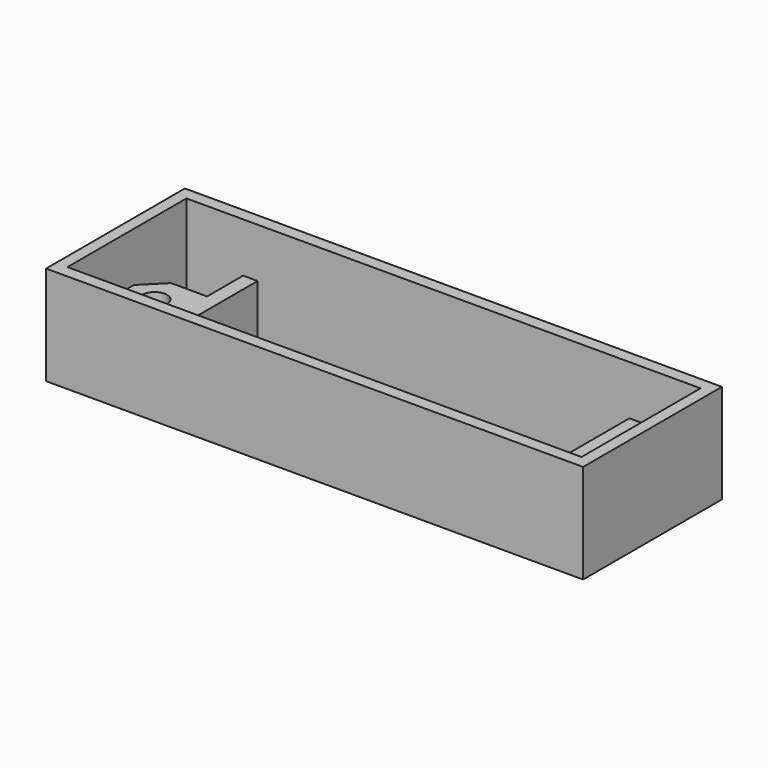
from build123d import *

# Parameters (mm, degrees)
F0_W      = 130
F0_H      = 42
F0_W_2    = 90
F0_H_2    = 36
F1_DEPTH  = 4
F3_DEPTH  = 5
F5_DEPTH  = 3
F6_SIZE   = 3
F7_R      = 3
F8_DEPTH  = 12.5
F10_R     = 3
F11_DEPTH = 37.9
F12_W     = 130
F12_H     = 42
F13_DEPTH = 20
F14_W     = 3.5
F14_H     = 10.9
F15_DEPTH = 8


with BuildPart() as f1:
    # F0 (on Top) → F1 (new body)
    with BuildSketch(Plane.XY):
        Rectangle(F0_W, F0_H)
        Rectangle(F0_W_2, F0_H_2, mode=Mode.SUBTRACT)
    extrude(amount=F1_DEPTH)

    # F2 (on face) → F3 (join)
    with BuildSketch(Plane.XY.offset(4)):
        Polygon((45, 7.1), (45, 4.1), (56, 4.1), (60.1, 0), (56, -4.1), (45, -4.1), (45, -7.1), (57.242641, -7.1), (64.342641, 0), (57.242641, 7.1), align=None)
    extrude(amount=F3_DEPTH)

    # F4 (on face) → F5 (join)
    with BuildSketch(Plane.XY.offset(9)):
        Polygon((57.242641, 7.1), (45, 7.1), (45, -7.1), (57.242641, -7.1), (64.342641, 0), align=None)
        Polygon((57.242641, 7.1), (45, 7.1), (45, -4.1), (45, -7.1), (57.242641, -7.1), (64.342641, 0), align=None)
    extrude(amount=F5_DEPTH)

    # F6
    f6_edges = [f1.edges().sort_by_distance(p)[0] for p in [
        (64.342641, 0, 8),
    ]]
    chamfer(f6_edges, length=F6_SIZE)

    # F7 (on face) → F8 (cut, symmetric)
    with BuildSketch(Plane.XY.offset(4)):
        with Locations((55.5, 0.032705)):
            Circle(F7_R)
    extrude(amount=F8_DEPTH, both=True, mode=Mode.SUBTRACT)

    # F9: F1 across plane


with BuildPart() as f1_1:
    add(f1.part)
    add(f1.part.mirror(Plane.YZ))

    # F10 (on face) → F11 (cut)
    with BuildSketch(Plane.XY.offset(12)):
        with Locations((-55.5, 0.032705)):
            Circle(F10_R)
        with Locations((55.5, 0.032705)):
            Circle(F10_R)
    extrude(amount=-F11_DEPTH, mode=Mode.SUBTRACT)

    # F12 (on face) → F13 (join)
    with BuildSketch(Plane.XY.offset(4)):
        Rectangle(F12_W, F12_H)
        Polygon((45, 18), (62.22132, 18), (62.22132, 2.12132), (62.22132, -2.12132), (62.22132, -18), (45, -18), (-45, -18), (-62.22132, -18), (-62.22132, -2.12132), (-62.22132, 2.12132), (-62.22132, 18), (-45, 18), align=None, mode=Mode.SUBTRACT)
    extrude(amount=F13_DEPTH)

    # F14 (on face) → F15 (join)
    with BuildSketch(Plane.XY.offset(4)):
        with Locations((-46.75, 12.55)):
            Rectangle(F14_W, F14_H)
    extrude(amount=F15_DEPTH)

    # F16: F1 across plane


with BuildPart() as f1_2:
    add(f1_1.part)
    add(f1_1.part.mirror(Plane.XZ))

    # F17: F1 across plane


with BuildPart() as f1_3:
    add(f1_2.part)
    add(f1_2.part.mirror(Plane.YZ))


solid = f1_3.part
